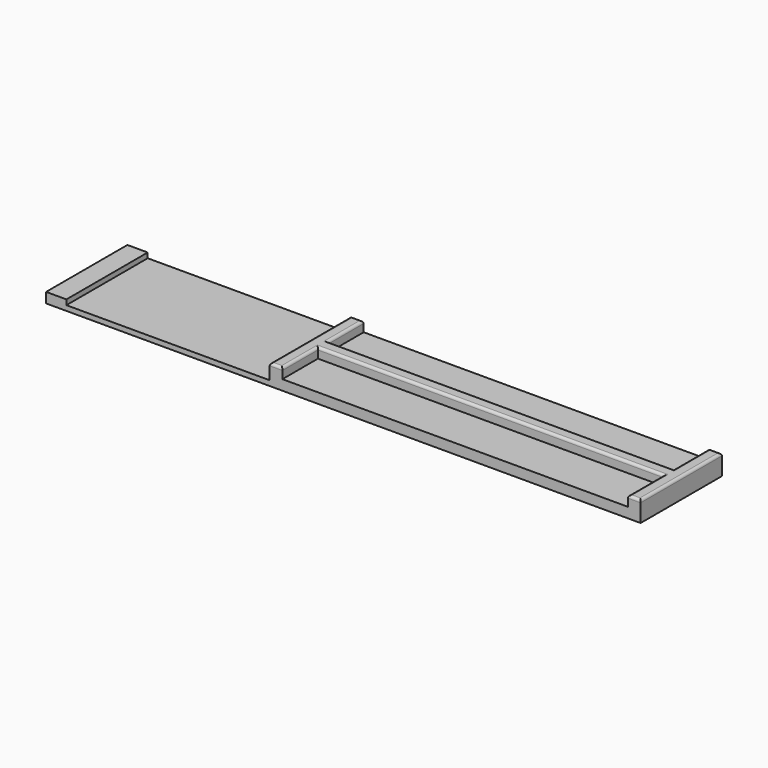
from build123d import *

# Parameters (mm, degrees)
F0_W     = 40
F0_H     = 20
F1_DEPTH = 1
F0_W_2   = 4
F0_W_3   = 69
F2_DEPTH = 2
F4_DEPTH = 2
F5_R     = 0.5


with BuildPart() as f1:
    # F0 (on Top) → F1 (new body)
    with BuildSketch(Plane.XY):
        with Locations((0.652443, -3.960167)):
            Rectangle(F0_W, F0_H)
    extrude(amount=F1_DEPTH)

    # F0 (on Top) → F2 (join)
    with BuildSketch(Plane.XY):
        with Locations((22.652443, -3.960167)):
            Rectangle(F0_W_2, F0_H)
        with Locations((-21.347557, -3.960167)):
            Rectangle(F0_W_2, F0_H)
        with Locations((59.152443, -3.960167)):
            Rectangle(F0_W_3, F0_H)
    extrude(amount=F2_DEPTH)

    # F3 (on face) → F4 (join)
    with BuildSketch(Plane.XY.offset(2)):
        Polygon((20.652443, 6.039833), (20.652443, -13.960167), (23.152443, -13.960167), (23.152443, -5.210167), (91.152443, -5.210167), (91.152443, -13.960167), (93.652443, -13.960167), (93.652443, 6.039833), (91.152443, 6.039833), (91.152443, -2.710167), (23.152443, -2.710167), (23.152443, 6.039833), align=None)
    extrude(amount=F4_DEPTH)

    # F5
    f5_edges = [f1.edges().sort_by_distance(p)[0] for p in [
        (21.902443, 6.039833, 4),
        (20.652443, -3.960167, 4),
        (21.902443, -13.960167, 4),
        (23.152443, -9.585167, 4),
        (57.152443, -5.210167, 4),
        (91.152443, -9.585167, 4),
        (92.402443, -13.960167, 4),
        (93.652443, -3.960167, 4),
        (92.402443, 6.039833, 4),
        (91.152443, 1.664833, 4),
        (57.152443, -2.710167, 4),
        (23.152443, 1.664833, 4),
    ]]
    fillet(f5_edges, radius=F5_R)


solid = f1.part
